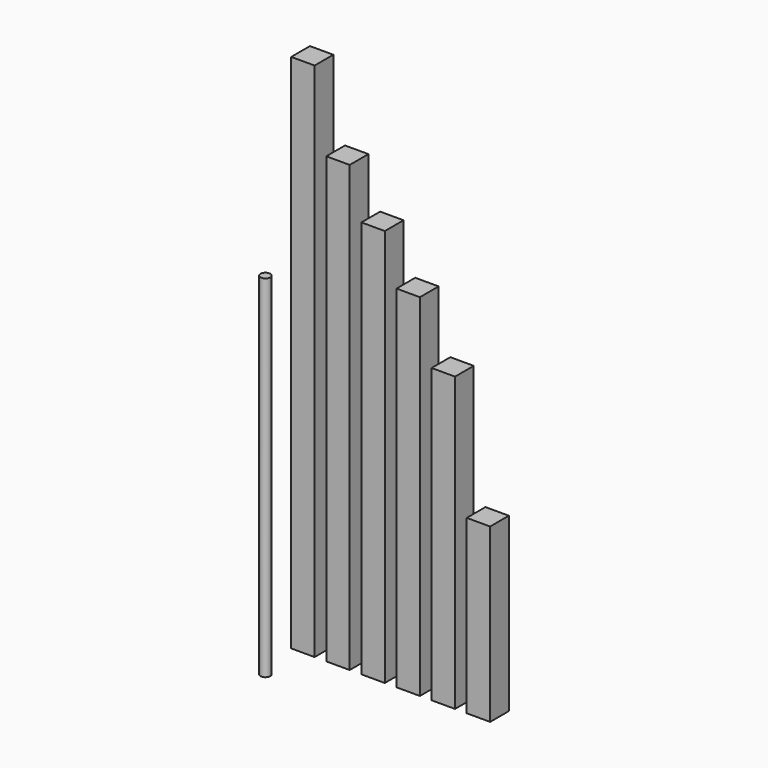
from build123d import *

# Parameters (mm, degrees)
F0_W     = 20
F0_H     = 20
F1_DEPTH = 445
F2_DEPTH = 380
F3_DEPTH = 340
F4_DEPTH = 300
F0_R     = 4.2
F5_DEPTH = 300
F6_DEPTH = 250
F7_DEPTH = 147


with BuildPart() as f1:
    # F0 (on Top) → F1 (new body)
    with BuildSketch(Plane.XY):
        Rectangle(F0_W, F0_H)
    extrude(amount=F1_DEPTH)


with BuildPart() as f2:
    # F0 (on Top) → F2 (new body)
    with BuildSketch(Plane.XY):
        with Locations((30, 0)):
            Rectangle(F0_W, F0_H)
    extrude(amount=F2_DEPTH)


with BuildPart() as f3:
    # F0 (on Top) → F3 (new body)
    with BuildSketch(Plane.XY):
        with Locations((60, 0)):
            Rectangle(F0_W, F0_H)
    extrude(amount=F3_DEPTH)


with BuildPart() as f4:
    # F0 (on Top) → F4 (new body)
    with BuildSketch(Plane.XY):
        with Locations((90, 0)):
            Rectangle(F0_W, F0_H)
    extrude(amount=F4_DEPTH)


with BuildPart() as f5:
    # F0 (on Top) → F5 (new body)
    with BuildSketch(Plane.XY):
        with Locations((0, -50)):
            Circle(F0_R)
    extrude(amount=F5_DEPTH)


with BuildPart() as f6:
    # F0 (on Top) → F6 (new body)
    with BuildSketch(Plane.XY):
        with Locations((120, 0)):
            Rectangle(F0_W, F0_H)
    extrude(amount=F6_DEPTH)


with BuildPart() as f7:
    # F0 (on Top) → F7 (new body)
    with BuildSketch(Plane.XY):
        with Locations((150, 0)):
            Rectangle(F0_W, F0_H)
    extrude(amount=F7_DEPTH)


solid = Compound([f1.part, f2.part, f3.part, f4.part, f5.part, f6.part, f7.part])
